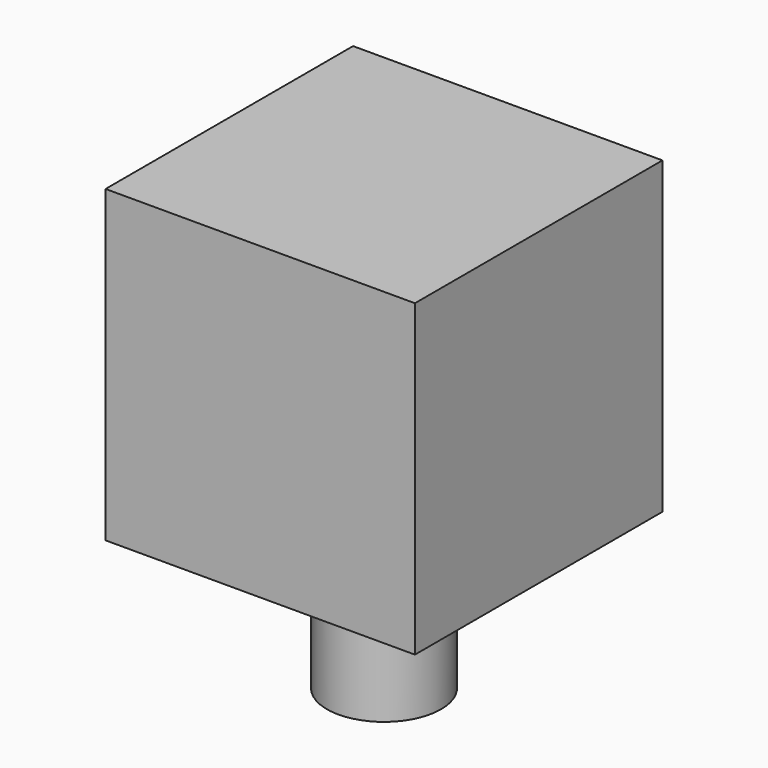
from build123d import *

# Parameters (mm, degrees)
F0_W     = 26.0096
F0_H     = 26.0096
F1_DEPTH = 26.0096
F2_R     = 4.795051
F3_DEPTH = 1.2
F4_DEPTH = 12


with BuildPart() as f1:
    # F0 (on Top) → F1 (new body)
    with BuildSketch(Plane.XY):
        Rectangle(F0_W, F0_H)
    extrude(amount=F1_DEPTH)

    # F2 (on Top) → F3 (join)
    with BuildSketch(Plane.XY):
        Circle(F2_R)
    extrude(amount=-F3_DEPTH)

    # F2 (on Top) → F4 (join)
    with BuildSketch(Plane.XY):
        Circle(F2_R)
    extrude(amount=-F4_DEPTH)


solid = f1.part
